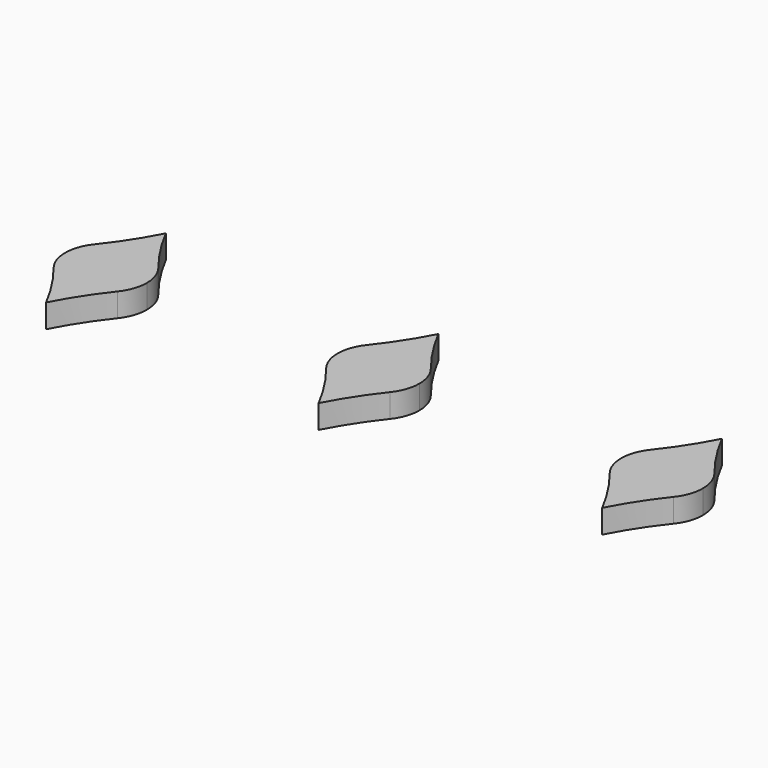
from build123d import *

# Parameters (mm, degrees)
F1_DEPTH = 2.54


with BuildPart() as f1:
    # F0 (on Top) → F1 (new body)
    with BuildSketch(Plane.XY):
        with BuildLine():
            ThreePointArc((-3.437893, 2.743572), (0, 4.398442), (3.437893, 2.743572))
            ThreePointArc((3.437893, 2.743572), (1.587434, 5.313498), (0, 8.053712))
            ThreePointArc((0, 8.053712), (-1.587434, 5.313498), (-3.437893, 2.743572))
        make_face()
        with BuildLine():
            ThreePointArc((0, -8.053712), (1.587434, -5.313498), (3.437893, -2.743572))
            ThreePointArc((3.437893, -2.743572), (0, -4.398442), (-3.437893, -2.743572))
            ThreePointArc((-3.437893, -2.743572), (-1.587434, -5.313498), (0, -8.053712))
        make_face()
        with BuildLine():
            ThreePointArc((3.437893, -2.743572), (4.151365, -1.453431), (4.398442, 0))
            ThreePointArc((4.398442, 0), (4.151365, 1.453431), (3.437893, 2.743572))
            ThreePointArc((3.437893, 2.743572), (0, 4.398442), (-3.437893, 2.743572))
            ThreePointArc((-3.437893, 2.743572), (-4.398442, 0), (-3.437893, -2.743572))
            ThreePointArc((-3.437893, -2.743572), (0, -4.398442), (3.437893, -2.743572))
        make_face()
    extrude(amount=F1_DEPTH)


with BuildPart() as f2_1:
    # F2: copy of F1
    add(f1.part.moved(Location((30.51259, 0, 0))))


with BuildPart() as f3_1:
    # F3: copy of F1
    add(f1.part.moved(Location((-29.32599, 0, 0))))


solid = Compound([f1.part, f2_1.part, f3_1.part])
